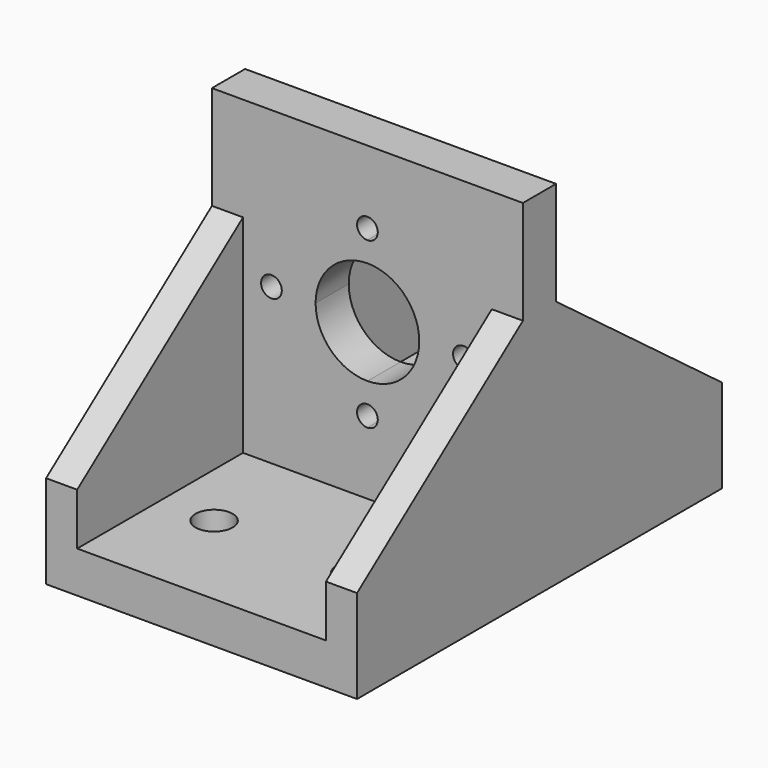
from build123d import *

# Parameters (mm, degrees)
F0_W      = 38.1
F0_H      = 55.88
F1_DEPTH  = 5.08
F2_W      = 38.1
F2_H      = 2.54
F3_DEPTH  = 38.1
F5_W      = 3.81
F5_H      = 25.4
F6_DEPTH  = 38.1
F7_W      = 3.81
F7_H      = 25.4
F8_DEPTH  = 38.1
F10_DEPTH = 127
F11_DEPTH = 25.4
F12_DEPTH = 25.4
F14_DEPTH = 25.4
F16_DEPTH = 25.4


with BuildPart() as f1:
    # F0 (on Top) → F1 (new body)
    with BuildSketch(Plane.XY):
        with Locations((19.05, 27.94)):
            Rectangle(F0_W, F0_H)
    extrude(amount=F1_DEPTH)

    # F2 (on face) → F3 (join)
    with BuildSketch(Plane.XY.offset(5.08)):
        with Locations((19.05, 29.21)):
            Rectangle(F2_W, F2_H)
        with Locations((19.05, 26.67)):
            Rectangle(F2_W, F2_H)
    extrude(amount=F3_DEPTH)

    # F5 (on face) → F6 (join)
    with BuildSketch(Plane.XY.offset(5.08)):
        with Locations((1.905, 12.7)):
            Rectangle(F5_W, F5_H)
        with Locations((36.195, 12.7)):
            Rectangle(F5_W, F5_H)
    extrude(amount=F6_DEPTH)

    # F7 (on face) → F8 (join)
    with BuildSketch(Plane.XY.offset(5.08)):
        with Locations((36.195, 43.18)):
            Rectangle(F7_W, F7_H)
        with Locations((1.905, 43.18)):
            Rectangle(F7_W, F7_H)
    extrude(amount=F8_DEPTH)

    # F9 (on face) → F10 (cut)
    with BuildSketch(Plane(origin=(0, 0, 0), x_dir=(0, -1, 0), z_dir=(-1, 0, 0))):
        Polygon((-55.88, 43.18), (-55.88, 11.43), (-30.48, 30.48), (-30.48, 43.18), align=None)
        Polygon((0, 43.18), (-25.4, 43.18), (-25.4, 30.48), (0, 11.43), align=None)
    extrude(amount=-F10_DEPTH, mode=Mode.SUBTRACT)

    # F4 (on face) → F11 (cut)
    with BuildSketch(Plane.XZ.offset(-25.4)):
        with BuildLine():
            ThreePointArc((19.05, 15.2908), (17.78, 14.0208), (19.05, 12.7508))
            Line((19.05, 12.7508), (19.05, 15.2908))
        make_face()
        with BuildLine():
            Line((19.05, 15.2908), (19.05, 12.7508))
            ThreePointArc((19.05, 12.7508), (19.9480256121, 13.1227743879), (20.32, 14.0208))
            ThreePointArc((20.32, 14.0208), (19.9480256121, 14.9188256121), (19.05, 15.2908))
        make_face()
        with BuildLine():
            ThreePointArc((29.5402, 24.13), (30.8102, 22.86), (32.0802, 24.13))
            Line((32.0802, 24.13), (29.5402, 24.13))
        make_face()
        with BuildLine():
            Line((29.5402, 24.13), (32.0802, 24.13))
            ThreePointArc((32.0802, 24.13), (30.8102, 25.4), (29.5402, 24.13))
        make_face()
        with BuildLine():
            ThreePointArc((20.32, 34.2392), (19.9480256121, 35.1372256121), (19.05, 35.5092))
            Line((19.05, 35.5092), (19.05, 32.9692))
            ThreePointArc((19.05, 32.9692), (19.9480256121, 33.3411743879), (20.32, 34.2392))
        make_face()
        with BuildLine():
            Line((19.05, 32.9692), (19.05, 35.5092))
            ThreePointArc((19.05, 35.5092), (17.78, 34.2392), (19.05, 32.9692))
        make_face()
        with BuildLine():
            ThreePointArc((8.5598, 24.13), (7.2898, 25.4), (6.0198, 24.13))
            Line((6.0198, 24.13), (8.5598, 24.13))
        make_face()
        with BuildLine():
            Line((8.5598, 24.13), (6.0198, 24.13))
            ThreePointArc((6.0198, 24.13), (7.2898, 22.86), (8.5598, 24.13))
        make_face()
    extrude(amount=-F11_DEPTH, mode=Mode.SUBTRACT)

    # F4 (on face) → F12 (cut)
    with BuildSketch(Plane.XZ.offset(-25.4)):
        with BuildLine():
            Line((19.05, 26.162), (19.05, 30.48))
            ThreePointArc((19.05, 30.48), (14.5598719395, 28.6201280605), (12.7, 24.13))
            Line((12.7, 24.13), (17.018, 24.13))
            ThreePointArc((17.018, 24.13), (17.6131590206, 25.5668409794), (19.05, 26.162))
        make_face()
        with BuildLine():
            ThreePointArc((25.4, 24.13), (23.5401280605, 28.6201280605), (19.05, 30.48))
            Line((19.05, 30.48), (19.05, 26.162))
            ThreePointArc((19.05, 26.162), (20.4868409794, 25.5668409794), (21.082, 24.13))
            Line((21.082, 24.13), (25.4, 24.13))
        make_face()
        with BuildLine():
            ThreePointArc((21.082, 24.13), (20.4868409794, 25.5668409794), (19.05, 26.162))
            Line((19.05, 26.162), (19.05, 24.13))
            Line((19.05, 24.13), (21.082, 24.13))
        make_face()
        with BuildLine():
            Line((19.05, 24.13), (19.05, 26.162))
            ThreePointArc((19.05, 26.162), (17.6131590206, 25.5668409794), (17.018, 24.13))
            Line((17.018, 24.13), (19.05, 24.13))
        make_face()
        with BuildLine():
            Line((17.018, 24.13), (12.7, 24.13))
            ThreePointArc((12.7, 24.13), (14.5598719395, 19.6398719395), (19.05, 17.78))
            Line((19.05, 17.78), (19.05, 22.098))
            ThreePointArc((19.05, 22.098), (17.6131590206, 22.6931590206), (17.018, 24.13))
        make_face()
        with BuildLine():
            Line((19.05, 24.13), (17.018, 24.13))
            ThreePointArc((17.018, 24.13), (17.6131590206, 22.6931590206), (19.05, 22.098))
            Line((19.05, 22.098), (19.05, 24.13))
        make_face()
        with BuildLine():
            Line((21.082, 24.13), (19.05, 24.13))
            Line((19.05, 24.13), (19.05, 22.098))
            ThreePointArc((19.05, 22.098), (20.4868409794, 22.6931590206), (21.082, 24.13))
        make_face()
        with BuildLine():
            ThreePointArc((19.05, 17.78), (23.5401280605, 19.6398719395), (25.4, 24.13))
            Line((25.4, 24.13), (21.082, 24.13))
            ThreePointArc((21.082, 24.13), (20.4868409794, 22.6931590206), (19.05, 22.098))
            Line((19.05, 22.098), (19.05, 17.78))
        make_face()
    extrude(amount=-F12_DEPTH, mode=Mode.SUBTRACT)

    # F13 (on face) → F14 (cut)
    with BuildSketch(Plane.XY.offset(5.08)):
        with BuildLine():
            ThreePointArc((12.7, 12.7), (10.4267, 14.9733), (8.1534, 12.7))
            Line((8.1534, 12.7), (12.7, 12.7))
        make_face()
        with BuildLine():
            Line((12.7, 12.7), (8.1534, 12.7))
            ThreePointArc((8.1534, 12.7), (10.4267, 10.4267), (12.7, 12.7))
        make_face()
        with BuildLine():
            ThreePointArc((29.9466, 12.7), (27.6733, 14.9733), (25.4, 12.7))
            Line((25.4, 12.7), (29.9466, 12.7))
        make_face()
        with BuildLine():
            Line((29.9466, 12.7), (25.4, 12.7))
            ThreePointArc((25.4, 12.7), (27.6733, 10.4267), (29.9466, 12.7))
        make_face()
    extrude(amount=-F14_DEPTH, mode=Mode.SUBTRACT)

    # F15 (on face) → F16 (cut)
    with BuildSketch(Plane.XY.offset(5.08)):
        with BuildLine():
            ThreePointArc((12.7, 43.18), (10.4267, 45.4533), (8.1534, 43.18))
            Line((8.1534, 43.18), (12.7, 43.18))
        make_face()
        with BuildLine():
            Line((12.7, 43.18), (8.1534, 43.18))
            ThreePointArc((8.1534, 43.18), (10.4267, 40.9067), (12.7, 43.18))
        make_face()
        with BuildLine():
            ThreePointArc((29.9466, 43.18), (27.6733, 45.4533), (25.4, 43.18))
            Line((25.4, 43.18), (29.9466, 43.18))
        make_face()
        with BuildLine():
            Line((29.9466, 43.18), (25.4, 43.18))
            ThreePointArc((25.4, 43.18), (27.6733, 40.9067), (29.9466, 43.18))
        make_face()
    extrude(amount=-F16_DEPTH, mode=Mode.SUBTRACT)


solid = f1.part
